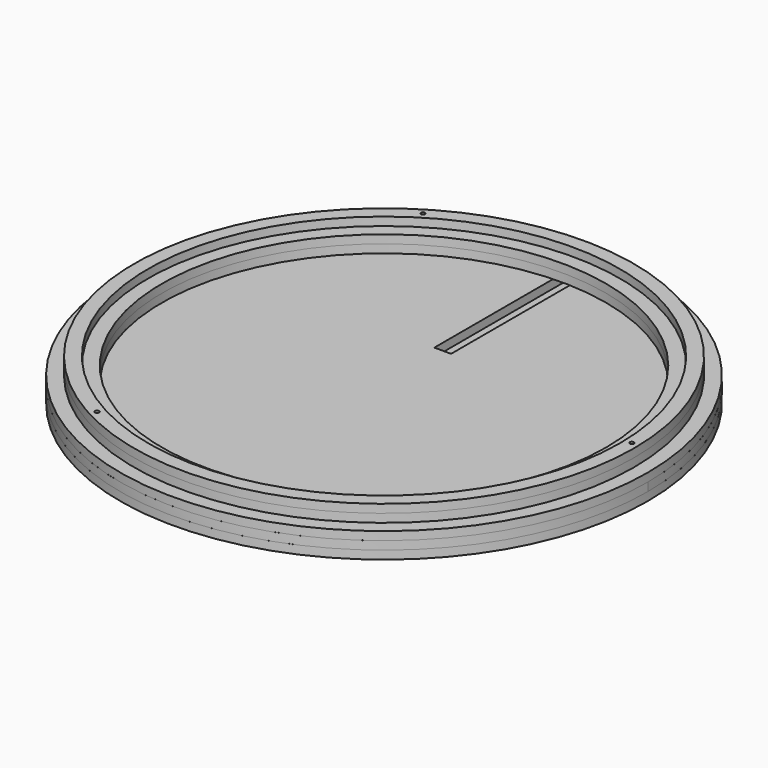
from build123d import *

# Parameters (mm, degrees)
F1_R      = 89.5
F1_R_2    = 79.5
F2_DEPTH  = 3
F3_R      = 89.5
F3_R_2    = 84.5
F4_DEPTH  = 3
F5_R      = 94.5
F5_R_2    = 79.5
F6_DEPTH  = 3
F7_R      = 94.5
F8_DEPTH  = 3
F9_R      = 0.75
F10_DEPTH = 12.001
F12_DEPTH = 25
F13_R     = 94.5
F14_DEPTH = 3


with BuildPart() as f2:
    # F1 (on Top) → F2 (new body)
    with BuildSketch(Plane.XY):
        Circle(F1_R)
        Circle(F1_R_2, mode=Mode.SUBTRACT)
    extrude(amount=F2_DEPTH)


with BuildPart() as f4:
    # F3 (on face) → F4 (new body)
    with BuildSketch(Plane.XY.offset(3)):
        Circle(F3_R)
        Circle(F3_R_2, mode=Mode.SUBTRACT)
    extrude(amount=F4_DEPTH)


with BuildPart() as f6:
    # F5 (on face) → F6 (new body)
    with BuildSketch(Plane(origin=(0, 0, 0), x_dir=(1, 0, 0), z_dir=(0, 0, -1))):
        Circle(F5_R)
        Circle(F5_R_2, mode=Mode.SUBTRACT)
    extrude(amount=F6_DEPTH)


with BuildPart() as f8:
    # F7 (on face) → F8 (new body)
    with BuildSketch(Plane(origin=(0, 0, -3), x_dir=(1, 0, 0), z_dir=(0, 0, -1))):
        Circle(F7_R)
    extrude(amount=F8_DEPTH)


with BuildPart() as f10_tool:
    # F9 (on face) → F10 (new body, through all)
    with BuildSketch(Plane.XY.offset(6)):
        with Locations((87.0081335306, 2.2222734988)):
            Circle(F9_R)
        with Locations((-45.4286120694, 74.240117224)):
            Circle(F9_R)
        with Locations((-41.5795214612, -76.4623907228)):
            Circle(F9_R)
    extrude(amount=-F10_DEPTH)


with BuildPart() as f2_1:
    add(f2.part)

    # F10: cut by f10_tool
    add(f10_tool.part, mode=Mode.SUBTRACT)


with BuildPart() as f4_1:
    add(f4.part)

    # F10: cut by f10_tool
    add(f10_tool.part, mode=Mode.SUBTRACT)


with BuildPart() as f6_1:
    add(f6.part)

    # F10: cut by f10_tool
    add(f10_tool.part, mode=Mode.SUBTRACT)


with BuildPart() as f8_1:
    add(f8.part)

    # F10: cut by f10_tool
    add(f10_tool.part, mode=Mode.SUBTRACT)

    # F11 (on face) → F12 (cut)
    with BuildSketch(Plane(origin=(0, 0, -6), x_dir=(1, 0, 0), z_dir=(0, 0, -1))):
        with BuildLine():
            Line((3, -26.2818075716), (-3, -26.2818075716))
            Line((-3, -26.2818075716), (-3, -94.4523689486))
            ThreePointArc((-3, -94.4523689486), (0, -94.5), (3, -94.4523689486))
            Line((3, -94.4523689486), (3, -26.2818075716))
        make_face()
    extrude(amount=-F12_DEPTH, mode=Mode.SUBTRACT)


with BuildPart() as f14:
    # F13 (on face) → F14 (new body)
    with BuildSketch(Plane(origin=(0, 0, -6), x_dir=(1, 0, 0), z_dir=(0, 0, -1))):
        Circle(F13_R)
    extrude(amount=F14_DEPTH)


solid = Compound([f2_1.part, f4_1.part, f6_1.part, f8_1.part, f14.part])
